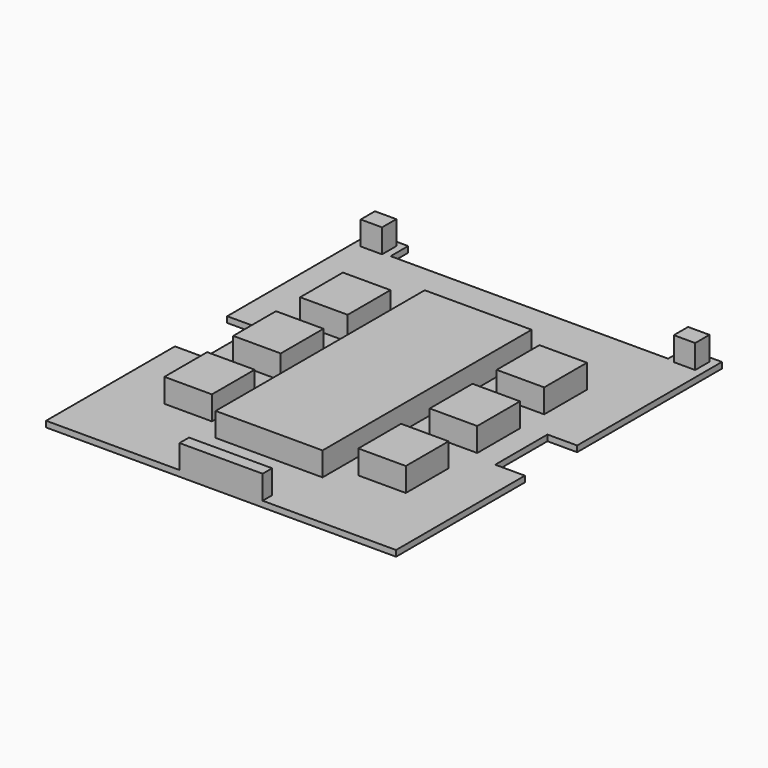
from build123d import *

# Parameters (mm, degrees)
F1_DEPTH = 50
F2_W     = 450
F2_H     = 2200
F2_W_2   = 400
F2_H_2   = 450
F2_W_3   = 180
F2_H_3   = 150
F3_DEPTH = 200


with BuildPart() as f1:
    # F0 (on Top) → F1 (new body)
    with BuildSketch(Plane.XY):
        Polygon((-1619.504448, 3165.525589), (-1619.504448, 3350.462443), (-1924.504448, 3350.462443), (-1924.504448, 1827.0714), (-1674.504448, 1827.0714), (-1674.504448, 1277.0714), (-1924.504448, 1277.0714), (-1924.504448, -78.537557), (1021.495552, -78.537557), (1021.495552, 1277.0714), (771.495552, 1277.0714), (771.495552, 1827.0714), (1021.495552, 1827.0714), (1021.495552, 3350.462443), (716.495552, 3350.462443), (716.495552, 3165.525589), align=None)
    extrude(amount=F1_DEPTH)

    # F2 (on face) → F3 (join)
    with BuildSketch(Plane.XY.offset(50)):
        with Locations((-676.504448, 1526.7483)):
            Rectangle(F2_W, F2_H)
        with Locations((-226.504448, 1526.7483)):
            Rectangle(F2_W, F2_H)
        with Locations((-1278.614229, 2262.525177)):
            Rectangle(F2_W_2, F2_H_2)
        with Locations((-1267.668551, 820.34359)):
            Rectangle(F2_W_2, F2_H_2)
        with Locations((-1278.614229, 1558.142042)):
            Rectangle(F2_W_2, F2_H_2)
        with Locations((375.605333, 2262.525177)):
            Rectangle(F2_W_2, F2_H_2)
        with Locations((375.605333, 1558.142042)):
            Rectangle(F2_W_2, F2_H_2)
        with Locations((364.659655, 820.34359)):
            Rectangle(F2_W_2, F2_H_2)
        with Locations((-1769.504448, 3225.462443)):
            Rectangle(F2_W_3, F2_H_3)
        with Locations((866.495552, 3225.462443)):
            Rectangle(F2_W_3, F2_H_3)
        Polygon((-801.504448, -78.537557), (-451.504448, -78.537557), (-101.504448, -78.537557), (-101.504448, 21.462443), (-801.504448, 21.462443), align=None)
    extrude(amount=F3_DEPTH)


solid = f1.part
